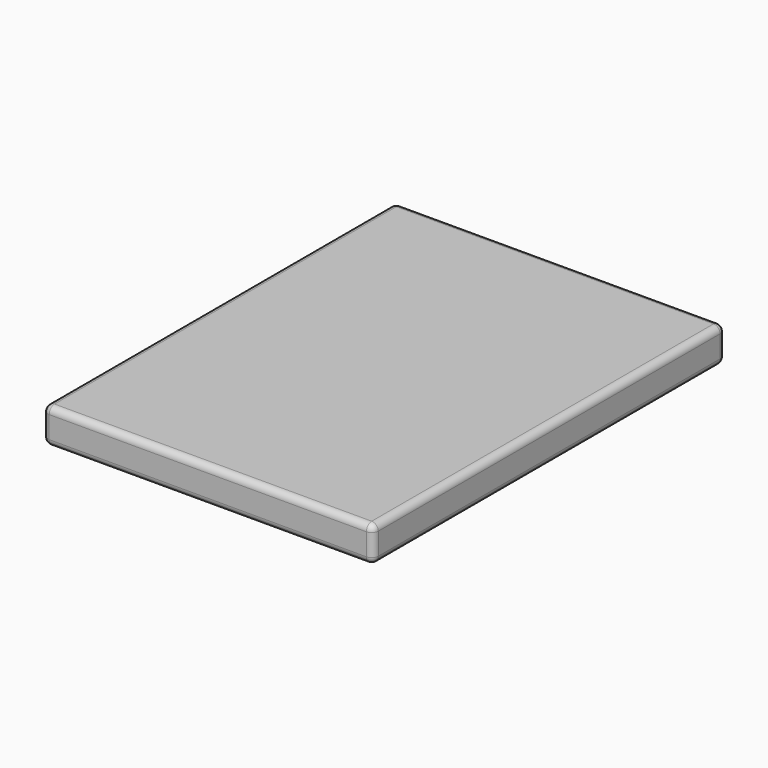
from build123d import *

# Parameters (mm, degrees)
F0_W      = 750
F0_H      = 1000
F1_DEPTH  = 20
F2_W      = 750
F2_H      = 1000
F2_W_2    = 650
F2_H_2    = 900
F3_DEPTH  = 60
F4_R      = 15
F5_W      = 650
F5_H      = 40
F6_DEPTH  = 60
F8_DEPTH  = 500
F10_DEPTH = 242


with BuildPart() as f1:
    # F0 (on Top) → F1 (new body)
    with BuildSketch(Plane.XY):
        with Locations((375, 500)):
            Rectangle(F0_W, F0_H)
    extrude(amount=F1_DEPTH)

    # F2 (on face) → F3 (join)
    with BuildSketch(Plane(origin=(0, 0, 0), x_dir=(1, 0, 0), z_dir=(0, 0, -1))):
        with Locations((375, -500)):
            Rectangle(F2_W, F2_H)
        with Locations((375, -500)):
            Rectangle(F2_W_2, F2_H_2, mode=Mode.SUBTRACT)
    extrude(amount=F3_DEPTH)

    # F4
    f4_edges = [f1.edges().sort_by_distance(p)[0] for p in [
        (750, 500, 20),
        (750, 1000, -20),
        (750, 500, -60),
        (750, 0, -20),
        (375, 0, 20),
        (375, 0, -60),
        (0, 0, -20),
        (0, 1000, -20),
        (0, 500, 20),
        (0, 500, -60),
        (375, 1000, 20),
        (375, 1000, -60),
    ]]
    fillet(f4_edges, radius=F4_R)

    # F5 (on face) → F6 (join)
    with BuildSketch(Plane(origin=(0, 0, 0), x_dir=(1, 0, 0), z_dir=(0, 0, -1))):
        with Locations((375, -155.55052)):
            Rectangle(F5_W, F5_H)
        with Locations((375, -371.085923)):
            Rectangle(F5_W, F5_H)
        with Locations((375, -586.024683)):
            Rectangle(F5_W, F5_H)
        with Locations((375, -802.115779)):
            Rectangle(F5_W, F5_H)
    extrude(amount=F6_DEPTH)

    # F7 (on face) → F8 (cut)
    with BuildSketch(Plane.XZ.offset(-351.085923)):
        with BuildLine():
            Line((678.736282, -38.204683), (678.374153, -38.204684))
            ThreePointArc((678.374153, -38.204684), (678.555218, -38.206869), (678.736282, -38.204683))
        make_face()
        with BuildLine():
            Line((71.454815, -38.206869), (678.374153, -38.204684))
            Line((678.374153, -38.204684), (678.736282, -38.204683))
            ThreePointArc((678.736282, -38.204683), (686.054644, -30.616317), (678.55519, -23.206869))
            Line((678.55519, -23.206869), (71.454761, -23.206876))
            ThreePointArc((71.454761, -23.206876), (63.954792, -30.7069), (71.454815, -38.206869))
        make_face()
    extrude(amount=-F8_DEPTH, mode=Mode.SUBTRACT)

    # F9 (on face) → F10 (cut)
    with BuildSketch(Plane.XZ.offset(-351.085923)):
        with BuildLine():
            Line((678.55519, -23.206869), (71.454788, -23.206876))
            ThreePointArc((71.454788, -23.206876), (63.954792, -30.706886), (71.454815, -38.206869))
            Line((71.454815, -38.206869), (678.374153, -38.204684))
            ThreePointArc((678.374153, -38.204684), (686.054644, -30.797395), (678.55519, -23.206869))
        make_face()
    extrude(amount=F10_DEPTH, mode=Mode.SUBTRACT)


solid = f1.part
